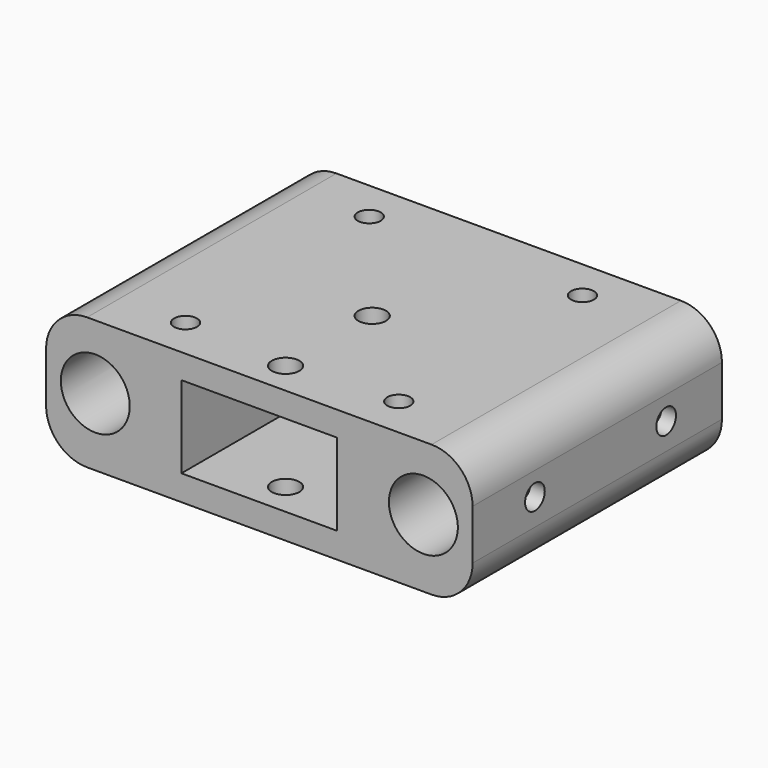
from build123d import *

# Parameters (mm, degrees)
BOX003_W        = 52
BOX003_H        = 38
BOX003_DEPTH    = 16.1
SKETCH018_R     = 4.2
SKETCH018_W     = 19
SKETCH018_H     = 10
POCKET010_DEPTH = 38.001
SKETCH020_R     = 1.4
SKETCH020_R_2   = 1.68
POCKET011_DEPTH = 16.101
SKETCH021_R     = 1.5
POCKET012_DEPTH = 3
SKETCH019_R     = 1.5
POCKET013_DEPTH = 3
FILLET006_R     = 5


with BuildPart() as part:
    # Box003 → Box003 (new body)
    with BuildSketch(Plane(origin=(70, 0, 0), x_dir=(1, 0, 0), z_dir=(0, 0, 1))):
        with Locations((26, 19)):
            Rectangle(BOX003_W, BOX003_H)
    extrude(amount=BOX003_DEPTH)

    # Sketch018 → Pocket010 (cut, through all)
    with BuildSketch(Plane(origin=(70, 38, 0), x_dir=(-1, 0, 0), z_dir=(0, 1, 0))):
        with Locations((-46, 8.25)):
            Circle(SKETCH018_R)
        with Locations((-6, 8.25)):
            Circle(SKETCH018_R)
        with Locations((-26, 8.1)):
            Rectangle(SKETCH018_W, SKETCH018_H)
    extrude(amount=-POCKET010_DEPTH, mode=Mode.SUBTRACT)

    # Sketch020 → Pocket011 (cut, through all)
    with BuildSketch(Plane(origin=(70, 0, 16.1), x_dir=(1, 0, 0), z_dir=(0, 0, 1))):
        with Locations((13, 5)):
            Circle(SKETCH020_R)
        with Locations((39, 5)):
            Circle(SKETCH020_R)
        with Locations((39, 33)):
            Circle(SKETCH020_R)
        with Locations((13, 33)):
            Circle(SKETCH020_R)
        with Locations((26, 4)):
            Circle(SKETCH020_R_2)
        with Locations((26, 17.2)):
            Circle(SKETCH020_R_2)
    extrude(amount=-POCKET011_DEPTH, mode=Mode.SUBTRACT)

    # Sketch021 → Pocket012 (cut)
    with BuildSketch(Plane(origin=(70, 0, 0), x_dir=(0, -1, 0), z_dir=(-1, 0, 0))):
        with Locations((-29.5, 8.25)):
            Circle(SKETCH021_R)
        with Locations((-9.5, 8.25)):
            Circle(SKETCH021_R)
    extrude(amount=-POCKET012_DEPTH, mode=Mode.SUBTRACT)

    # Sketch019 → Pocket013 (cut)
    with BuildSketch(Plane.YZ.offset(122)):
        with Locations((9.5, 8.25)):
            Circle(SKETCH019_R)
        with Locations((29.5, 8.25)):
            Circle(SKETCH019_R)
    extrude(amount=-POCKET013_DEPTH, mode=Mode.SUBTRACT)

    # Fillet006
    fillet006_edges = [part.edges().sort_by_distance(p)[0] for p in [
        (122, 19, 16.1),
        (122, 19, 0),
        (70, 19, 0),
        (70, 19, 16.1),
    ]]
    fillet(fillet006_edges, radius=FILLET006_R)


solid = part.part
